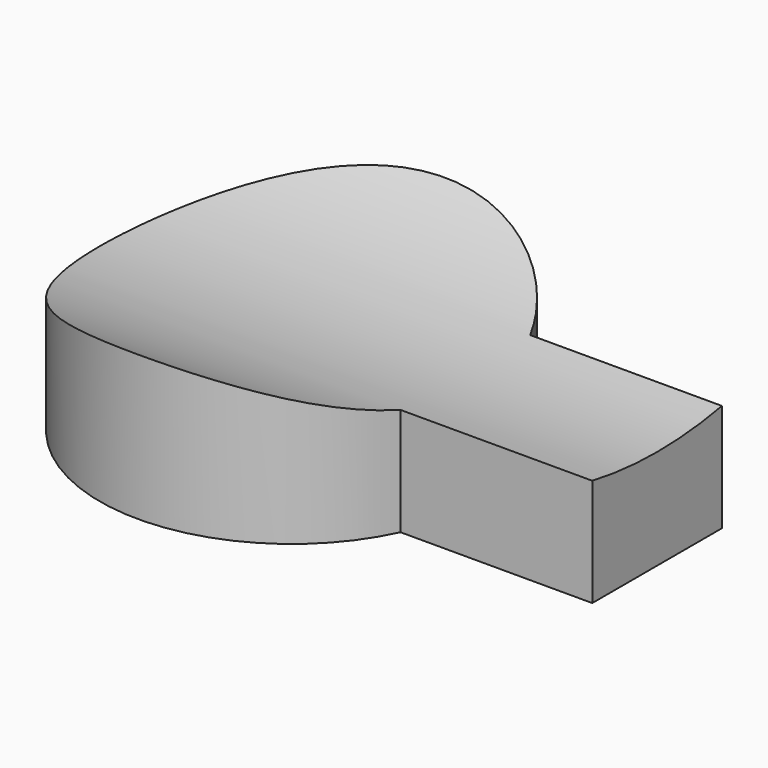
from build123d import *

# Parameters (mm, degrees)
PAD_DEPTH         = 25
POCKET_DEPTH      = 23.001
POCKET_DEPTH_BACK = -29.31454


with BuildPart() as part:
    # Sketch001 → Pad (new body)
    with BuildSketch(Plane.XY):
        with BuildLine():
            Line((29.31354, 7.607129), (11.31354, 7.607129))
            ThreePointArc((11.31354, 7.607129), (-23, 0), (11.31354, -7.607129))
            Line((11.31354, -7.607129), (29.31354, -7.607129))
            Line((29.31354, 7.607129), (29.31354, -7.607129))
        make_face()
    extrude(amount=PAD_DEPTH)

    # Sketch → Pocket (cut, two sides)
    with BuildSketch(Plane.YZ) as pocket_sk:
        with BuildLine():
            ThreePointArc((-32.000301, 25), (0, 9.391882), (32.000301, 25))
            Line((0, 50), (32.000301, 25))
            Line((-32.000301, 25), (0, 50))
        make_face()
    extrude(amount=-POCKET_DEPTH, mode=Mode.SUBTRACT)
    extrude(pocket_sk.sketch, amount=-POCKET_DEPTH_BACK, mode=Mode.SUBTRACT)


solid = part.part
